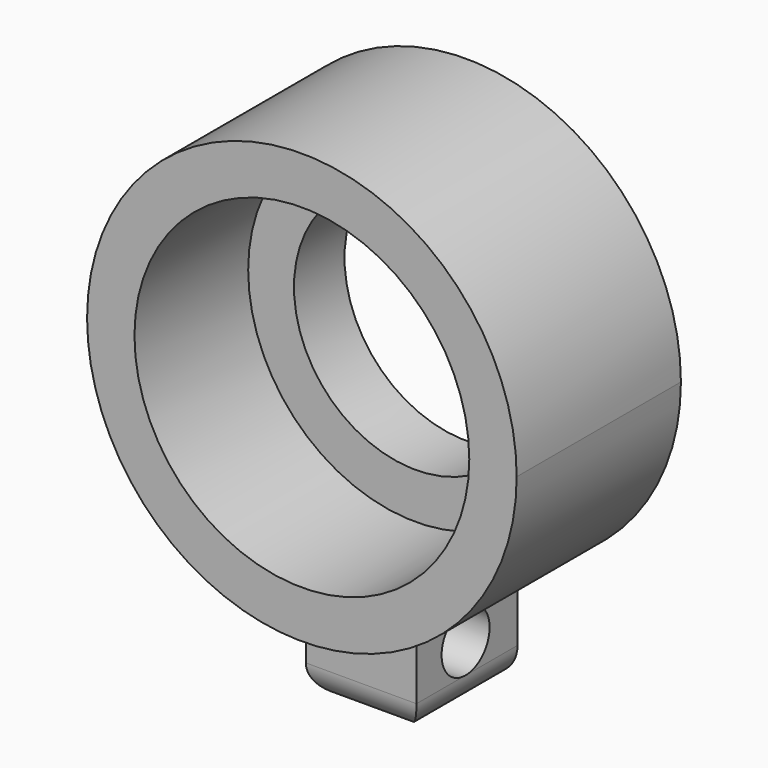
from build123d import *

# Parameters (mm, degrees)
F0_R     = 5.3
F0_R_2   = 3.85
F1_DEPTH = 2
F2_DEPTH = 6.5
F3_DEPTH = 4
F4_R     = 0.95
F5_DEPTH = 25.4
F6_R     = 1


with BuildPart() as f1:
    # F0 (on Front) → F1 (new body)
    with BuildSketch(Plane.XZ):
        Circle(F0_R)
        Circle(F0_R_2, mode=Mode.SUBTRACT)
    extrude(amount=F1_DEPTH)

    # F0 (on Front) → F2 (join)
    with BuildSketch(Plane.XZ):
        with BuildLine():
            ThreePointArc((1.6268819186, -6.6025188545), (5.352709387, -4.1938648308), (6.8, 3.00667e-05))
            ThreePointArc((6.8, 3.00667e-05), (-3.00667e-05, 6.8), (-6.8, -3.00667e-05))
            ThreePointArc((-6.8, -3.00667e-05), (-5.4303317767, -4.0928592445), (-1.8731180814, -6.5369280747))
            ThreePointArc((-1.8731180814, -6.5369280747), (-0.1274111438, -6.7988062483), (1.6268819186, -6.6025188545))
        make_face()
        Circle(F0_R, mode=Mode.SUBTRACT)
    extrude(amount=F2_DEPTH)

    # F0 (on Front) → F3 (join)
    with BuildSketch(Plane.XZ):
        with BuildLine():
            Line((1.6268819186, -10.0241614027), (1.6268819186, -6.6025188544))
            ThreePointArc((1.6268819186, -6.6025188545), (-0.1274111438, -6.7988062483), (-1.8731180814, -6.5369280747))
            Line((-1.8731180814, -6.5369280746), (-1.8731180814, -10.0241614027))
            Line((-1.8731180814, -10.0241614027), (1.6268819186, -10.0241614027))
        make_face()
    extrude(amount=F3_DEPTH)

    # F4 (on face) → F5 (cut)
    with BuildSketch(Plane.YZ.offset(1.6268819186)):
        with Locations((-2.055265424, -8.0741614027)):
            Circle(F4_R)
    extrude(amount=-F5_DEPTH, mode=Mode.SUBTRACT)

    # F6
    f6_edges = [f1.edges().sort_by_distance(p)[0] for p in [
        (1.626882, -2, -10.024161),
        (-1.873118, -2, -10.024161),
        (-0.123118, -4, -10.024161),
    ]]
    fillet(f6_edges, radius=F6_R)


solid = f1.part
